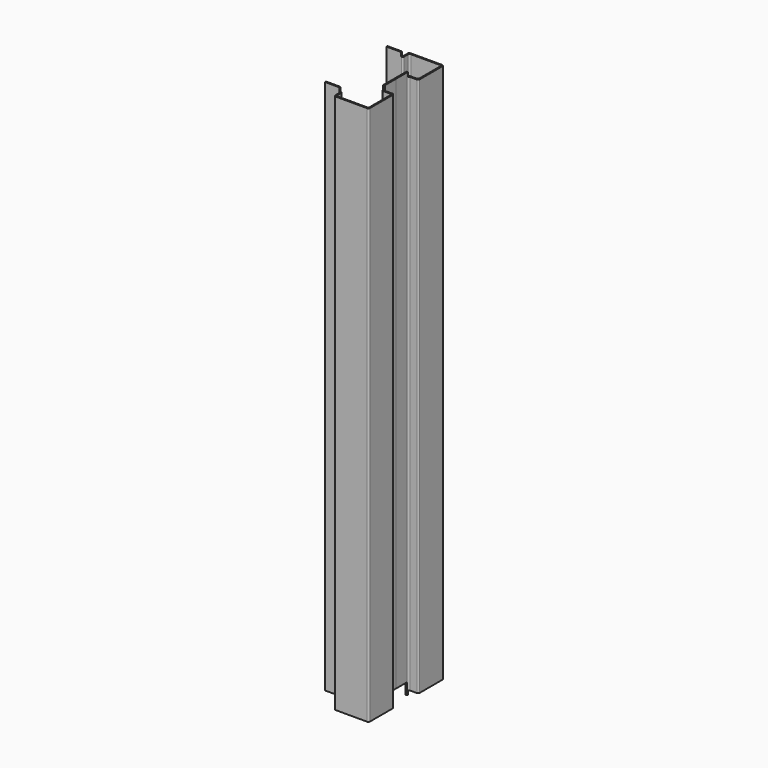
from build123d import *

# Parameters (mm, degrees)
F1_DEPTH      = 2700
F3_DEPTH      = 159
F4_W          = 67
F4_H          = 56.321
F5_DEPTH      = 25
F7_W          = 67
F7_H          = 62
F8_DEPTH      = 423.001
F8_DEPTH_BACK = 39.001


with BuildPart() as f1:
    # F0 (on Top) → F1 (new body)
    with BuildSketch(Plane.XY):
        with BuildLine():
            Line((-44.5896353125, 6), (-44.5896353125, 0))
            Line((-44.5896353125, 0), (22.4103646875, 0))
            ThreePointArc((22.4103646875, 0), (28.067218937, -2.3431457505), (30.4103646875, -8))
            Line((30.4103646875, -8), (30.4103646875, -31))
            ThreePointArc((30.4103646875, -31), (32.753510438, -36.6568542495), (38.4103646875, -39))
            Line((38.4103646875, -39), (193.4103646875, -39))
            ThreePointArc((193.4103646875, -39), (199.067218937, -36.6568542495), (201.4103646875, -31))
            Line((201.4103646875, -31), (201.4103646875, 109))
            ThreePointArc((201.4103646875, 109), (199.067218937, 114.6568542495), (193.4103646875, 117))
            Line((193.4103646875, 117), (159.4103646875, 117))
            ThreePointArc((159.4103646875, 117), (153.753510438, 119.3431457505), (151.4103646875, 125))
            Line((151.4103646875, 125), (151.4103646875, 192))
            Line((151.4103646875, 192), (145.4103646875, 192))
            Line((145.4103646875, 192), (145.4103646875, 119))
            ThreePointArc((145.4103646875, 119), (147.753510438, 113.3431457505), (153.4103646875, 111))
            Line((153.4103646875, 111), (187.4103646875, 111))
            ThreePointArc((187.4103646875, 111), (193.067218937, 108.6568542495), (195.4103646875, 103))
            Line((195.4103646875, 103), (195.4103646875, -25))
            ThreePointArc((195.4103646875, -25), (193.067218937, -30.6568542495), (187.4103646875, -33))
            Line((187.4103646875, -33), (44.4103646875, -33))
            ThreePointArc((44.4103646875, -33), (38.753510438, -30.6568542495), (36.4103646875, -25))
            Line((36.4103646875, -25), (36.4103646875, -2))
            ThreePointArc((36.4103646875, -2), (34.067218937, 3.6568542495), (28.4103646875, 6))
            Line((28.4103646875, 6), (-44.5896353125, 6))
        make_face()
    extrude(amount=F1_DEPTH)

    # F2 (on face) → F3 (cut)
    with BuildSketch(Plane.XZ.offset(39)):
        Polygon((201.4103646875, 0), (201.4103646875, 20), (193.4103646875, 20), (26.4103646875, 20), (26.4103646875, 0), (38.4103646875, 0), (193.4103646875, 0), align=None)
        Polygon((193.4103646875, 2700), (38.4103646875, 2700), (26.4103646875, 2700), (26.4103646875, 2680), (193.4103646875, 2680), (201.4103646875, 2680), (201.4103646875, 2700), align=None)
    extrude(amount=-F3_DEPTH, mode=Mode.SUBTRACT)

    # F4 (on face) → F5 (cut)
    with BuildSketch(Plane(origin=(145.4103646875, 0, 0), x_dir=(0, -1, 0), z_dir=(-1, 0, 0))):
        with Locations((-158.5, 28.1605)):
            Rectangle(F4_W, F4_H)
    extrude(amount=-F5_DEPTH, mode=Mode.SUBTRACT)


with BuildPart() as f6_1:
    # F6: instance of F1
    add(f1.part.mirror(Plane(origin=(148.4103646875, 192, 1378.1605), x_dir=(-1, 0, 0), z_dir=(0, 1, 0))))


with BuildPart() as f8_tool:
    # F7 (on face) → F8 (new body, two sides)
    with BuildSketch(Plane(origin=(0, 384, 0), x_dir=(-1, 0, 0), z_dir=(0, 1, 0))) as f8_sk:
        Polygon((-22.4103646875, 0), (-22.4103646875, 62), (-26.4103646875, 62), (-26.4103646875, 20), (-26.4103646875, 0), align=None)
        with Locations((11.0896353125, 31)):
            Rectangle(F7_W, F7_H)
    extrude(amount=-F8_DEPTH)
    extrude(f8_sk.sketch, amount=F8_DEPTH_BACK)


with BuildPart() as f1_1:
    add(f1.part)

    # F8: cut by f8_tool
    add(f8_tool.part, mode=Mode.SUBTRACT)


with BuildPart() as f6_1_1:
    add(f6_1.part)

    # F8: cut by f8_tool
    add(f8_tool.part, mode=Mode.SUBTRACT)


solid = Compound([f1_1.part, f6_1_1.part])
